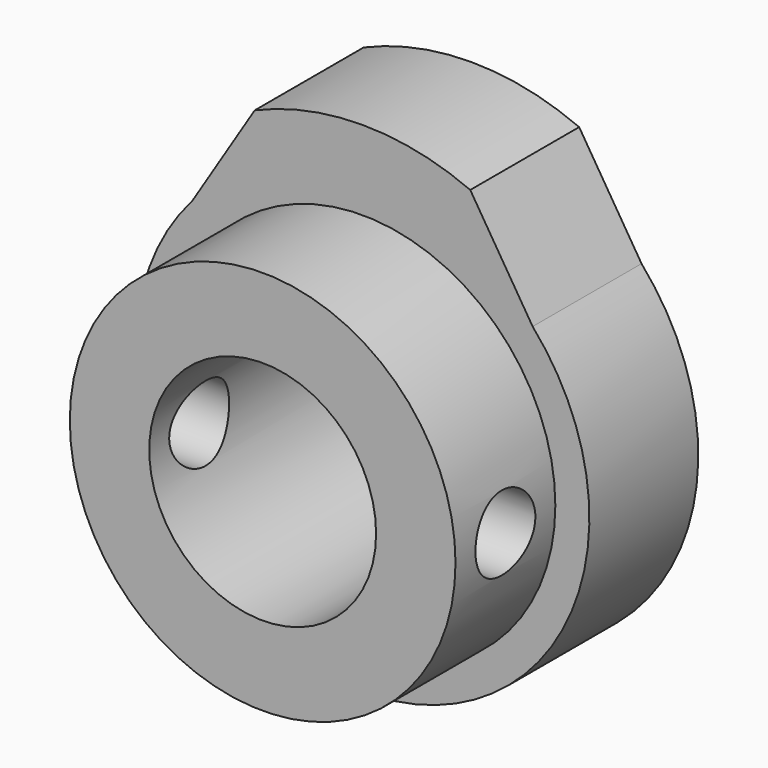
from build123d import *

# Parameters (mm, degrees)
F0_R     = 8.5
F0_R_2   = 5
F1_DEPTH = 6
F2_DEPTH = 11.5
F4_D     = 3.3
F4_DEPTH = 10.001
F5_D     = 3.3


with BuildPart() as f1:
    # F0 (on Front) → F1 (new body)
    with BuildSketch(Plane.XZ):
        with BuildLine():
            Line((-4.75, 11.0198684203), (-7.5, 6.6143782777))
            ThreePointArc((-7.5, 6.6143782777), (0, -10), (7.5, 6.6143782777))
            Line((7.5, 6.6143782777), (4.75, 11.0198684203))
            ThreePointArc((4.75, 11.0198684203), (0, 12), (-4.75, 11.0198684203))
        make_face()
        Circle(F0_R, mode=Mode.SUBTRACT)
        Circle(F0_R)
        Circle(F0_R_2, mode=Mode.SUBTRACT)
    extrude(amount=F1_DEPTH)

    # F0 (on Front) → F2 (join)
    with BuildSketch(Plane.XZ):
        Circle(F0_R)
        Circle(F0_R_2, mode=Mode.SUBTRACT)
    extrude(amount=F2_DEPTH)

    # F4 (through all, one way)
    with BuildSketch(Plane(origin=(0, 0, 0), x_dir=(0, 1, 0), z_dir=(-1, 0, 0))):
        with Locations((-8.75, 0)):
            Circle(F4_D / 2)
    extrude(amount=-F4_DEPTH, mode=Mode.SUBTRACT)

    # F5 (through all)
    with Locations(Plane.YZ):
        with Locations((-8.75, 0)):
            Hole(F5_D / 2)


solid = f1.part
